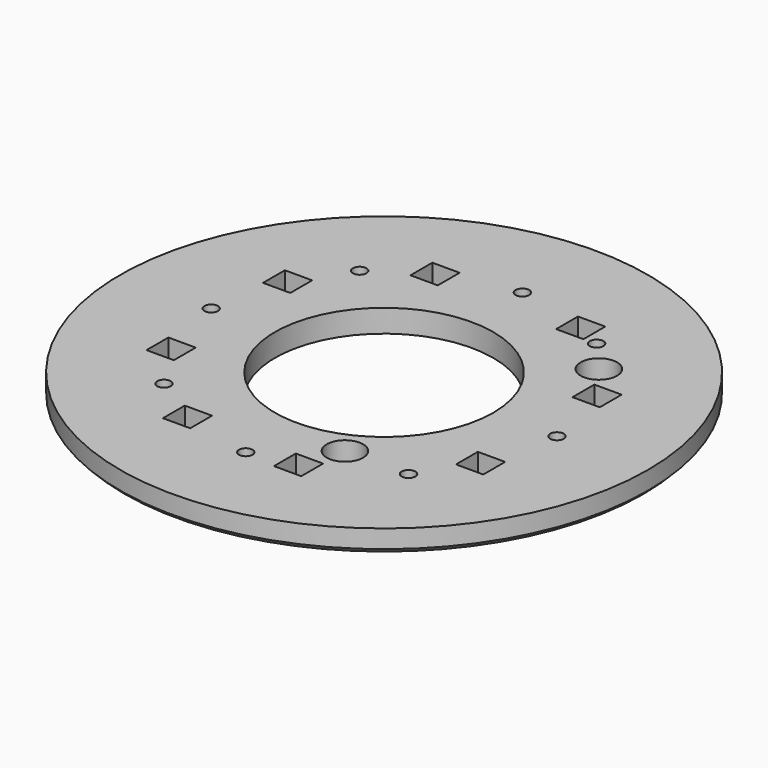
from build123d import *

# Parameters (mm, degrees)
CYLINDER2136_R               = 1.5
CYLINDER2136_DEPTH           = 100
CYLINDER2139_R               = 1.5
CYLINDER2139_DEPTH           = 100
CYLINDER2139_PLACEMENT_ANGLE = 145
CYLINDER2137_R               = 1.5
CYLINDER2137_DEPTH           = 100
CYLINDER2140_R               = 1.5
CYLINDER2140_DEPTH           = 100
CYLINDER2140_PLACEMENT_ANGLE = 225
CYLINDER2141_R               = 1.5
CYLINDER2141_DEPTH           = 100
CYLINDER2142_R               = 1.5
CYLINDER2142_DEPTH           = 100
CYLINDER2142_PLACEMENT_ANGLE = 45
CYLINDER2135_R               = 1.5
CYLINDER2135_DEPTH           = 100
CYLINDER2138_R               = 1.5
CYLINDER2138_DEPTH           = 100
CYLINDER2138_PLACEMENT_ANGLE = 45
CYLINDER2113_R               = 4
CYLINDER2113_DEPTH           = 40
CYLINDER2115_R               = 4
CYLINDER2115_DEPTH           = 40
CYLINDER2118_R               = 4
CYLINDER2118_DEPTH           = 40
CYLINDER2117_R               = 4
CYLINDER2117_DEPTH           = 40
CYLINDER2112_R               = 4
CYLINDER2112_DEPTH           = 40
CYLINDER2111_R               = 4
CYLINDER2111_DEPTH           = 40
CYLINDER2116_R               = 4
CYLINDER2116_DEPTH           = 40
CYLINDER2114_R               = 4
CYLINDER2114_DEPTH           = 40
BOX1004_W                    = 6
BOX1004_H                    = 6
BOX1004_DEPTH                = 20
BOX1005_W                    = 6
BOX1005_H                    = 6
BOX1005_DEPTH                = 20
BOX1006_W                    = 6
BOX1006_H                    = 6
BOX1006_DEPTH                = 20
BOX1007_W                    = 6
BOX1007_H                    = 6
BOX1007_DEPTH                = 20
BOX1008_W                    = 6
BOX1008_H                    = 6
BOX1008_DEPTH                = 20
BOX1009_W                    = 6
BOX1009_H                    = 6
BOX1009_DEPTH                = 20
BOX1010_W                    = 6
BOX1010_H                    = 6
BOX1010_DEPTH                = 20
BOX_W                        = 6
BOX_H                        = 6
BOX_DEPTH                    = 20
TUBE088_R                    = 58
TUBE088_R_2                  = 24
TUBE088_DEPTH                = 5
CHAMFER083_SIZE              = 1


with BuildPart() as obj1:
    # Cylinder2136 → Cylinder2136 (new body)
    with BuildSketch(Plane(origin=(38, 0, 0), x_dir=(0, 1, 0), z_dir=(0, 0, 1))):
        Circle(CYLINDER2136_R)
    extrude(amount=CYLINDER2136_DEPTH)


with BuildPart() as obj2:
    # Cylinder2139 → Cylinder2139 (new body)
    with BuildSketch(Plane.XY):
        Circle(CYLINDER2139_R)
    extrude(amount=CYLINDER2139_DEPTH)


with BuildPart() as obj2_1:
    # Cylinder2139 placement: moved
    add(obj2.part.moved(Location((21.795905, 31.127778, 0))).rotate(Axis((21.795905, 31.127778, 0), (0, 0, 1)), CYLINDER2139_PLACEMENT_ANGLE))


with BuildPart() as obj3:
    # Cylinder2137 → Cylinder2137 (new body)
    with BuildSketch(Plane(origin=(0, 38, 0), x_dir=(-1, 0, 0), z_dir=(0, 0, 1))):
        Circle(CYLINDER2137_R)
    extrude(amount=CYLINDER2137_DEPTH)


with BuildPart() as obj4:
    # Cylinder2140 → Cylinder2140 (new body)
    with BuildSketch(Plane.XY):
        Circle(CYLINDER2140_R)
    extrude(amount=CYLINDER2140_DEPTH)


with BuildPart() as obj4_1:
    # Cylinder2140 placement: moved
    add(obj4.part.moved(Location((-26.870058, 26.870058, 0))).rotate(Axis((-26.870058, 26.870058, 0), (0, 0, 1)), CYLINDER2140_PLACEMENT_ANGLE))


with BuildPart() as obj5:
    # Cylinder2141 → Cylinder2141 (new body)
    with BuildSketch(Plane(origin=(-38, 0, 0), x_dir=(0, -1, 0), z_dir=(0, 0, 1))):
        Circle(CYLINDER2141_R)
    extrude(amount=CYLINDER2141_DEPTH)


with BuildPart() as obj6:
    # Cylinder2142 → Cylinder2142 (new body)
    with BuildSketch(Plane.XY):
        Circle(CYLINDER2142_R)
    extrude(amount=CYLINDER2142_DEPTH)


with BuildPart() as obj6_1:
    # Cylinder2142 placement: moved
    add(obj6.part.moved(Location((-26.870058, -26.870058, 0))).rotate(Axis((-26.870058, -26.870058, 0), (0, 0, -1)), CYLINDER2142_PLACEMENT_ANGLE))


with BuildPart() as obj7:
    # Cylinder2135 → Cylinder2135 (new body)
    with BuildSketch(Plane(origin=(0, -38, 0), x_dir=(1, 0, 0), z_dir=(0, 0, 1))):
        Circle(CYLINDER2135_R)
    extrude(amount=CYLINDER2135_DEPTH)


with BuildPart() as compound1123:
    # Cylinder2138 → Cylinder2138 (new body)
    with BuildSketch(Plane.XY):
        Circle(CYLINDER2138_R)
    extrude(amount=CYLINDER2138_DEPTH)


with BuildPart() as compound1123_1:
    # Cylinder2138 placement: moved
    add(compound1123.part.moved(Location((26.870058, -26.870058, 0))).rotate(Axis((26.870058, -26.870058, 0), (0, 0, 1)), CYLINDER2138_PLACEMENT_ANGLE))

    # Compound1123: union obj1, obj2, obj3, obj4, obj5, obj6, obj7
    add(obj1.part)
    add(obj2_1.part)
    add(obj3.part)
    add(obj4_1.part)
    add(obj5.part)
    add(obj6_1.part)
    add(obj7.part)


with BuildPart() as obj8:
    # Cylinder2113 → Cylinder2113 (new body)
    with BuildSketch(Plane(origin=(103, 12, -20), x_dir=(1, 0, 0), z_dir=(0, 0, 1))):
        Circle(CYLINDER2113_R)
    extrude(amount=CYLINDER2113_DEPTH)


with BuildPart() as obj9:
    # Cylinder2115 → Cylinder2115 (new body)
    with BuildSketch(Plane(origin=(76, 24, -18), x_dir=(1, 0, 0), z_dir=(0, 0, 1))):
        Circle(CYLINDER2115_R)
    extrude(amount=CYLINDER2115_DEPTH)


with BuildPart() as obj10:
    # Cylinder2118 → Cylinder2118 (new body)
    with BuildSketch(Plane(origin=(91, -27, -18), x_dir=(1, 0, 0), z_dir=(0, 0, 1))):
        Circle(CYLINDER2118_R)
    extrude(amount=CYLINDER2118_DEPTH)


with BuildPart() as obj11:
    # Cylinder2117 → Cylinder2117 (new body)
    with BuildSketch(Plane(origin=(13, -27, -18), x_dir=(1, 0, 0), z_dir=(0, 0, 1))):
        Circle(CYLINDER2117_R)
    extrude(amount=CYLINDER2117_DEPTH)


with BuildPart() as obj12:
    # Cylinder2112 → Cylinder2112 (new body)
    with BuildSketch(Plane(origin=(28, 24, -18), x_dir=(1, 0, 0), z_dir=(0, 0, 1))):
        Circle(CYLINDER2112_R)
    extrude(amount=CYLINDER2112_DEPTH)


with BuildPart() as obj13:
    # Cylinder2111 → Cylinder2111 (new body)
    with BuildSketch(Plane(origin=(1, -12, -18), x_dir=(1, 0, 0), z_dir=(0, 0, 1))):
        Circle(CYLINDER2111_R)
    extrude(amount=CYLINDER2111_DEPTH)


with BuildPart() as obj14:
    # Cylinder2116 → Cylinder2116 (new body)
    with BuildSketch(Plane(origin=(1, 12, -18), x_dir=(1, 0, 0), z_dir=(0, 0, 1))):
        Circle(CYLINDER2116_R)
    extrude(amount=CYLINDER2116_DEPTH)


with BuildPart() as obj15:
    # Cylinder2114 → Cylinder2114 (new body)
    with BuildSketch(Plane(origin=(103, -12, -20), x_dir=(1, 0, 0), z_dir=(0, 0, 1))):
        Circle(CYLINDER2114_R)
    extrude(amount=CYLINDER2114_DEPTH)

    # Compound1117: union obj8, obj9, obj10, obj11, obj12, obj13, obj14
    add(obj8.part)
    add(obj9.part)
    add(obj10.part)
    add(obj11.part)
    add(obj12.part)
    add(obj13.part)
    add(obj14.part)


with BuildPart() as obj15_1:
    # Compound1117 placement: moved
    add(obj15.part.moved(Location((0, 0, 20))))


with BuildPart() as krychle1004:
    # Box1004 → Box1004 (new body)
    with BuildSketch(Plane(origin=(-19, 31, 0), x_dir=(1, 0, 0), z_dir=(0, 0, 1))):
        with Locations((3, 3)):
            Rectangle(BOX1004_W, BOX1004_H)
    extrude(amount=BOX1004_DEPTH)


with BuildPart() as krychle1005:
    # Box1005 → Box1005 (new body)
    with BuildSketch(Plane(origin=(-19, -37, 0), x_dir=(1, 0, 0), z_dir=(0, 0, 1))):
        with Locations((3, 3)):
            Rectangle(BOX1005_W, BOX1005_H)
    extrude(amount=BOX1005_DEPTH)


with BuildPart() as krychle1006:
    # Box1006 → Box1006 (new body)
    with BuildSketch(Plane(origin=(7, -39, 0), x_dir=(1, 0, 0), z_dir=(0, 0, 1))):
        with Locations((3, 3)):
            Rectangle(BOX1006_W, BOX1006_H)
    extrude(amount=BOX1006_DEPTH)


with BuildPart() as krychle1007:
    # Box1007 → Box1007 (new body)
    with BuildSketch(Plane(origin=(31, 13, 0), x_dir=(1, 0, 0), z_dir=(0, 0, 1))):
        with Locations((3, 3)):
            Rectangle(BOX1007_W, BOX1007_H)
    extrude(amount=BOX1007_DEPTH)


with BuildPart() as krychle1008:
    # Box1008 → Box1008 (new body)
    with BuildSketch(Plane(origin=(31, -19, 0), x_dir=(1, 0, 0), z_dir=(0, 0, 1))):
        with Locations((3, 3)):
            Rectangle(BOX1008_W, BOX1008_H)
    extrude(amount=BOX1008_DEPTH)


with BuildPart() as krychle1009:
    # Box1009 → Box1009 (new body)
    with BuildSketch(Plane(origin=(-37, 13, 0), x_dir=(1, 0, 0), z_dir=(0, 0, 1))):
        with Locations((3, 3)):
            Rectangle(BOX1009_W, BOX1009_H)
    extrude(amount=BOX1009_DEPTH)


with BuildPart() as krychle1010:
    # Box1010 → Box1010 (new body)
    with BuildSketch(Plane(origin=(-37, -19, 0), x_dir=(1, 0, 0), z_dir=(0, 0, 1))):
        with Locations((3, 3)):
            Rectangle(BOX1010_W, BOX1010_H)
    extrude(amount=BOX1010_DEPTH)


with BuildPart() as compound1116:
    # Box → Box (new body)
    with BuildSketch(Plane(origin=(13, 31, 0), x_dir=(1, 0, 0), z_dir=(0, 0, 1))):
        with Locations((3, 3)):
            Rectangle(BOX_W, BOX_H)
    extrude(amount=BOX_DEPTH)

    # Compound1116: union Krychle1004, Krychle1005, Krychle1006, Krychle1007, Krychle1008, Krychle1009, Krychle1010
    add(krychle1004.part)
    add(krychle1005.part)
    add(krychle1006.part)
    add(krychle1007.part)
    add(krychle1008.part)
    add(krychle1009.part)
    add(krychle1010.part)


with BuildPart() as compound1116_1:
    # Compound1116 placement: moved
    add(compound1116.part.moved(Location((0, 0, 22))))


with BuildPart() as chamfer083:
    # Tube088 → Tube088 (new body)
    with BuildSketch(Plane.XY.offset(27)):
        Circle(TUBE088_R)
        Circle(TUBE088_R_2, mode=Mode.SUBTRACT)
    extrude(amount=TUBE088_DEPTH)

    # Cut705: cut Compound1116
    add(compound1116_1.part, mode=Mode.SUBTRACT)

    # Cut708: cut obj15
    add(obj15_1.part, mode=Mode.SUBTRACT)

    # Cut711: cut Compound1123
    add(compound1123_1.part, mode=Mode.SUBTRACT)

    # Chamfer083
    chamfer083_edges = [chamfer083.edges().sort_by_distance(p)[0] for p in [
        (-58, 0, 27),
    ]]
    chamfer(chamfer083_edges, length=CHAMFER083_SIZE)


solid = chamfer083.part
